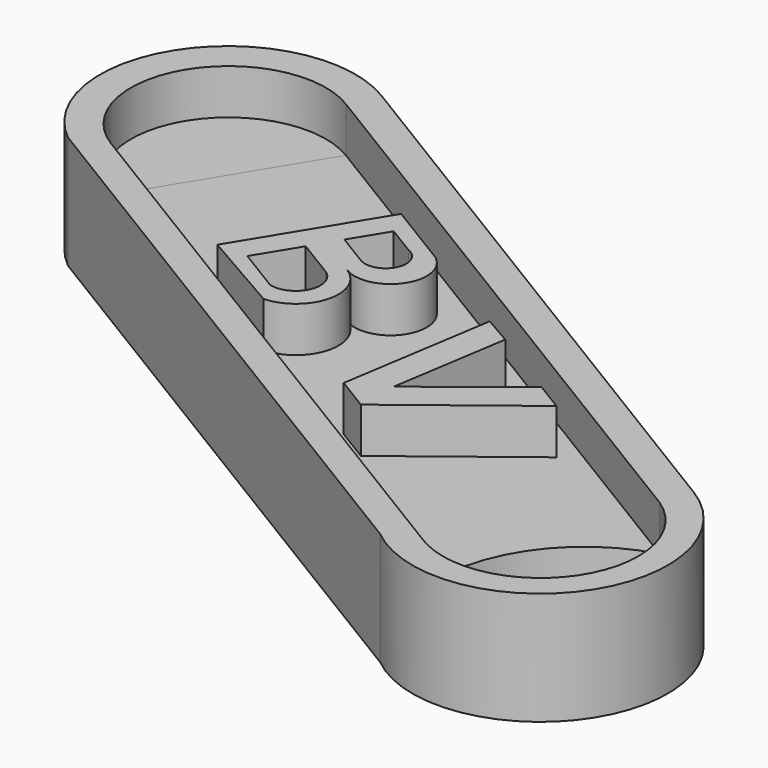
from build123d import *

# Parameters (mm, degrees)
F1_DEPTH = 5
F2_DEPTH = 3
F3_DEPTH = 3


with BuildPart() as f1:
    # F0 (on Top) → F1 (new body)
    with BuildSketch(Plane.XY):
        with BuildLine():
            Line((-1.867539, -7.233898), (-28.842813, 9.206171))
            ThreePointArc((-28.842813, 9.206171), (-36.399896, 7.646745), (-35.366166, 0))
            Line((-35.366166, 0), (-8.390893, -16.440069))
            ThreePointArc((-8.390893, -16.440069), (-0.196412, -15.332294), (-1.867539, -7.233898))
        make_face()
        with BuildLine():
            ThreePointArc((-2.31108, -8.569936), (-1.093875, -14.562898), (-7.086837, -15.780102))
            Line((-7.086837, -15.780102), (-33.917468, 0.574954))
            ThreePointArc((-33.917468, 0.574954), (-35.357781, 6.511557), (-29.421301, 7.952377))
            Line((-29.421301, 7.952377), (-2.31108, -8.569936))
        make_face(mode=Mode.SUBTRACT)
        with BuildLine():
            Line((-19.843331, 0.92877), (-22.791918, 2.725786))
            Line((-22.791918, 2.725786), (-24.453147, 0))
            Line((-24.453147, 0), (-21.623004, -1.72483))
            ThreePointArc((-21.623004, -1.72483), (-19.462769, -1.25004), (-19.843331, 0.92877))
        make_face()
        with BuildLine():
            Line((-21.707896, -0.862415), (-23.122968, 0))
            Line((-23.122968, 0), (-22.179092, 1.548735))
            Line((-22.179092, 1.548735), (-20.899853, 0.769103))
            ThreePointArc((-20.899853, 0.769103), (-20.413438, -0.487664), (-21.707896, -0.862415))
        make_face(mode=Mode.SUBTRACT)
        with BuildLine():
            Line((-21.623004, -1.72483), (-24.453147, 0))
            Line((-24.453147, 0), (-26.310924, -3.048285))
            Line((-26.310924, -3.048285), (-22.526877, -5.21989))
            ThreePointArc((-22.526877, -5.21989), (-20.778538, -3.807628), (-21.623004, -1.72483))
        make_face()
        with BuildLine():
            Line((-24.970907, -3.061822), (-23.85436, -1.229764))
            Line((-23.85436, -1.229764), (-22.146926, -2.270359))
            ThreePointArc((-22.146926, -2.270359), (-21.715837, -3.642604), (-23.019008, -4.251406))
            Line((-23.019008, -4.251406), (-24.970907, -3.061822))
        make_face(mode=Mode.SUBTRACT)
        Polygon((-14.101946, -2.375546), (-15.375238, -1.644824), (-16.434679, -8.398493), (-14.958266, -9.298292), (-9.614524, -5.154082), (-10.89326, -4.374757), (-14.911733, -7.537731), align=None)
    extrude(amount=F1_DEPTH)


with BuildPart() as f2:
    # F0 (on Top) → F2 (new body)
    with BuildSketch(Plane.XY):
        with BuildLine():
            Line((-33.917468, 0.574954), (-7.086837, -15.780102))
            ThreePointArc((-7.086837, -15.780102), (-6.050051, -11.280104), (-2.31108, -8.569936))
            Line((-2.31108, -8.569936), (-29.421301, 7.952377))
            Line((-29.421301, 7.952377), (-33.917468, 0.574954))
        make_face()
        Polygon((-16.434679, -8.398493), (-15.375238, -1.644824), (-14.101946, -2.375546), (-14.911733, -7.537731), (-10.89326, -4.374757), (-9.614524, -5.154082), (-14.958266, -9.298292), align=None, mode=Mode.SUBTRACT)
        with BuildLine():
            Line((-24.453147, 0), (-22.791918, 2.725786))
            Line((-22.791918, 2.725786), (-19.843331, 0.92877))
            ThreePointArc((-19.843331, 0.92877), (-19.462769, -1.25004), (-21.623004, -1.72483))
            ThreePointArc((-21.623004, -1.72483), (-20.778538, -3.807628), (-22.526877, -5.21989))
            Line((-22.526877, -5.21989), (-26.310924, -3.048285))
            Line((-26.310924, -3.048285), (-24.453147, 0))
        make_face(mode=Mode.SUBTRACT)
    extrude(amount=F2_DEPTH)


with BuildPart() as f3:
    # F0 (on Top) → F3 (new body)
    with BuildSketch(Plane.XY):
        with BuildLine():
            ThreePointArc((-29.421301, 7.952377), (-35.357781, 6.511557), (-33.917468, 0.574954))
            Line((-33.917468, 0.574954), (-29.421301, 7.952377))
        make_face()
    extrude(amount=F3_DEPTH)


solid = Compound([f1.part, f2.part, f3.part])
